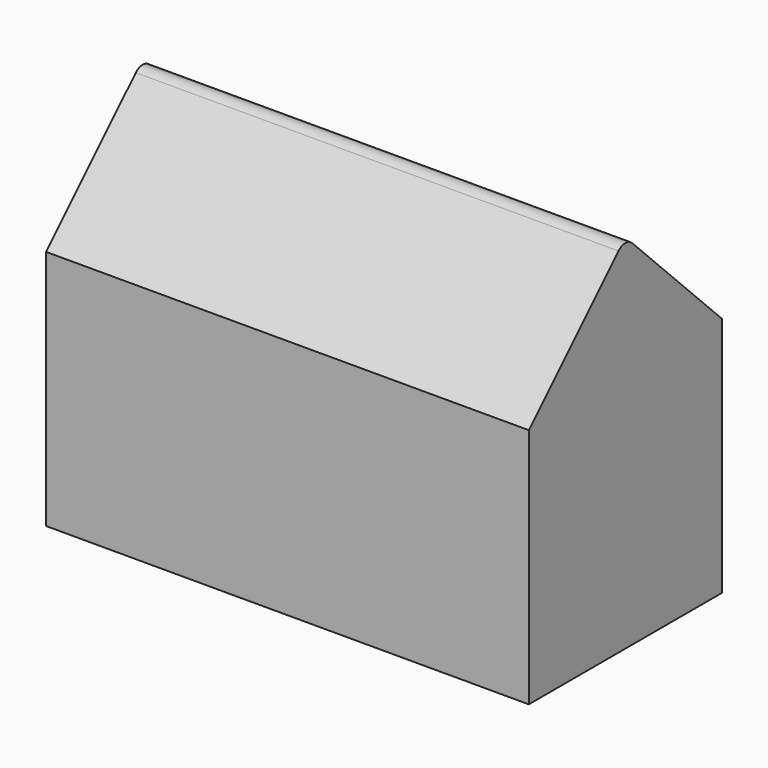
from build123d import *

# Parameters (mm, degrees)
F0_W     = 12.7
F0_H     = 12.7
F1_DEPTH = 25.4
F3_D     = 4.7625
F3_DEPTH = 9.525
F3_TIP   = 1.4307993491
F4_R     = 0.635


with BuildPart() as f1:
    # F0 (on Right) → F1 (new body)
    with BuildSketch(Plane.YZ):
        with Locations((6.35, 6.35)):
            Rectangle(F0_W, F0_H)
        Polygon((6.35, 19.05), (0, 12.7), (12.7, 12.7), align=None)
    extrude(amount=F1_DEPTH)

    # F3
    with Locations(Plane(origin=(0, 0, 0), x_dir=(1, 0, 0), z_dir=(0, 0, -1))):
        with Locations((6.35, -6.35), (19.05, -6.35)):
            Hole(F3_D / 2, depth=F3_DEPTH)
            with Locations((0, 0, -(F3_DEPTH + F3_TIP / 2))):  # 118° drill point
                Cone(0, F3_D / 2, F3_TIP, mode=Mode.SUBTRACT)

    # F4
    f4_edges = [f1.edges().sort_by_distance(p)[0] for p in [
        (12.7, 6.35, 19.05),
    ]]
    fillet(f4_edges, radius=F4_R)


solid = f1.part
